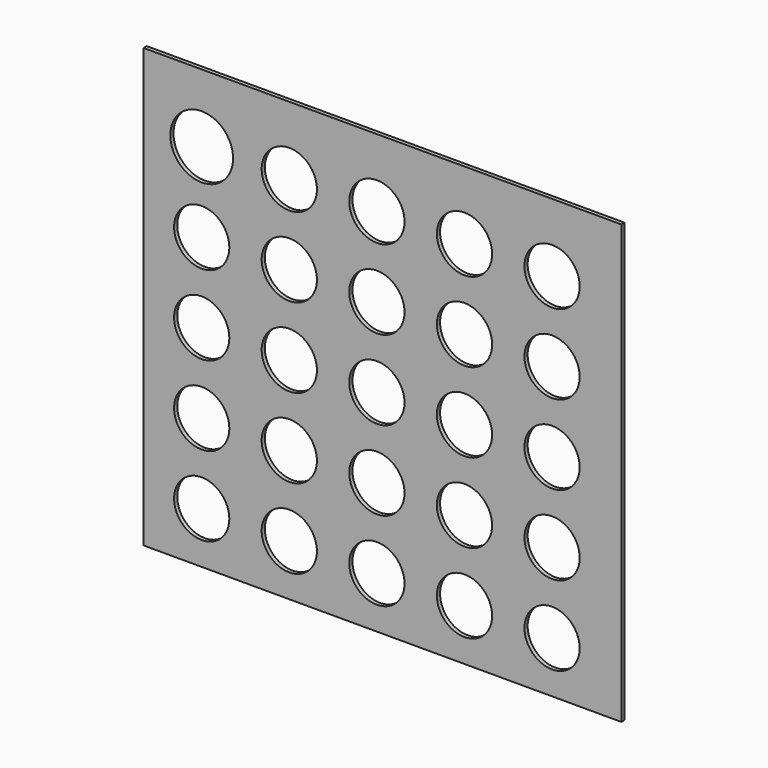
from build123d import *

# Parameters (mm, degrees)
F0_W     = 304.8
F0_H     = 279.4
F0_R     = 17.624016
F0_R_2   = 20.01992
F1_DEPTH = 2.54
F2_DEPTH = 0.0254


with BuildPart() as f1:
    # F0 (on Front) → F1 (new body)
    with BuildSketch(Plane.XZ):
        with Locations((46.453467, 28.282007)):
            Rectangle(F0_W, F0_H)
        with Locations((-68.827078, -78.692752)):
            Circle(F0_R, mode=Mode.SUBTRACT)
        with Locations((-12.947078, -78.692752)):
            Circle(F0_R, mode=Mode.SUBTRACT)
        with Locations((42.932922, -78.692752)):
            Circle(F0_R, mode=Mode.SUBTRACT)
        with Locations((-68.827078, -27.892752)):
            Circle(F0_R, mode=Mode.SUBTRACT)
        with Locations((-68.827078, 22.907248)):
            Circle(F0_R, mode=Mode.SUBTRACT)
        with Locations((-12.947078, -27.892752)):
            Circle(F0_R, mode=Mode.SUBTRACT)
        with Locations((42.932922, -27.892752)):
            Circle(F0_R, mode=Mode.SUBTRACT)
        with Locations((-12.947078, 22.907248)):
            Circle(F0_R, mode=Mode.SUBTRACT)
        with Locations((42.932922, 22.907248)):
            Circle(F0_R, mode=Mode.SUBTRACT)
        with Locations((98.812922, -78.692752)):
            Circle(F0_R, mode=Mode.SUBTRACT)
        with Locations((154.692922, -78.692752)):
            Circle(F0_R, mode=Mode.SUBTRACT)
        with Locations((98.812922, -27.892752)):
            Circle(F0_R, mode=Mode.SUBTRACT)
        with Locations((98.812922, 22.907248)):
            Circle(F0_R, mode=Mode.SUBTRACT)
        with Locations((154.692922, -27.892752)):
            Circle(F0_R, mode=Mode.SUBTRACT)
        with Locations((154.692922, 22.907248)):
            Circle(F0_R, mode=Mode.SUBTRACT)
        with Locations((-68.827078, 73.707248)):
            Circle(F0_R, mode=Mode.SUBTRACT)
        with Locations((-12.947078, 73.707248)):
            Circle(F0_R, mode=Mode.SUBTRACT)
        with Locations((42.932922, 73.707248)):
            Circle(F0_R, mode=Mode.SUBTRACT)
        with Locations((-68.827078, 124.507248)):
            Circle(F0_R_2, mode=Mode.SUBTRACT)
        with Locations((-12.947078, 124.507248)):
            Circle(F0_R, mode=Mode.SUBTRACT)
        with Locations((42.932922, 124.507248)):
            Circle(F0_R, mode=Mode.SUBTRACT)
        with Locations((98.812922, 73.707248)):
            Circle(F0_R, mode=Mode.SUBTRACT)
        with Locations((154.692922, 73.707248)):
            Circle(F0_R, mode=Mode.SUBTRACT)
        with Locations((98.812922, 124.507248)):
            Circle(F0_R, mode=Mode.SUBTRACT)
        with Locations((154.692922, 124.507248)):
            Circle(F0_R, mode=Mode.SUBTRACT)
    extrude(amount=F1_DEPTH)


with BuildPart() as f2:
    # F0 (on Front) → F2 (new body)
    with BuildSketch(Plane.XZ):
        with Locations((46.453467, 28.282007)):
            Rectangle(F0_W, F0_H)
        with Locations((-68.827078, -78.692752)):
            Circle(F0_R, mode=Mode.SUBTRACT)
        with Locations((-12.947078, -78.692752)):
            Circle(F0_R, mode=Mode.SUBTRACT)
        with Locations((42.932922, -78.692752)):
            Circle(F0_R, mode=Mode.SUBTRACT)
        with Locations((-68.827078, -27.892752)):
            Circle(F0_R, mode=Mode.SUBTRACT)
        with Locations((-68.827078, 22.907248)):
            Circle(F0_R, mode=Mode.SUBTRACT)
        with Locations((-12.947078, -27.892752)):
            Circle(F0_R, mode=Mode.SUBTRACT)
        with Locations((42.932922, -27.892752)):
            Circle(F0_R, mode=Mode.SUBTRACT)
        with Locations((-12.947078, 22.907248)):
            Circle(F0_R, mode=Mode.SUBTRACT)
        with Locations((42.932922, 22.907248)):
            Circle(F0_R, mode=Mode.SUBTRACT)
        with Locations((98.812922, -78.692752)):
            Circle(F0_R, mode=Mode.SUBTRACT)
        with Locations((154.692922, -78.692752)):
            Circle(F0_R, mode=Mode.SUBTRACT)
        with Locations((98.812922, -27.892752)):
            Circle(F0_R, mode=Mode.SUBTRACT)
        with Locations((98.812922, 22.907248)):
            Circle(F0_R, mode=Mode.SUBTRACT)
        with Locations((154.692922, -27.892752)):
            Circle(F0_R, mode=Mode.SUBTRACT)
        with Locations((154.692922, 22.907248)):
            Circle(F0_R, mode=Mode.SUBTRACT)
        with Locations((-68.827078, 73.707248)):
            Circle(F0_R, mode=Mode.SUBTRACT)
        with Locations((-12.947078, 73.707248)):
            Circle(F0_R, mode=Mode.SUBTRACT)
        with Locations((42.932922, 73.707248)):
            Circle(F0_R, mode=Mode.SUBTRACT)
        with Locations((-68.827078, 124.507248)):
            Circle(F0_R_2, mode=Mode.SUBTRACT)
        with Locations((-12.947078, 124.507248)):
            Circle(F0_R, mode=Mode.SUBTRACT)
        with Locations((42.932922, 124.507248)):
            Circle(F0_R, mode=Mode.SUBTRACT)
        with Locations((98.812922, 73.707248)):
            Circle(F0_R, mode=Mode.SUBTRACT)
        with Locations((154.692922, 73.707248)):
            Circle(F0_R, mode=Mode.SUBTRACT)
        with Locations((98.812922, 124.507248)):
            Circle(F0_R, mode=Mode.SUBTRACT)
        with Locations((154.692922, 124.507248)):
            Circle(F0_R, mode=Mode.SUBTRACT)
    extrude(amount=F2_DEPTH)


solid = Compound([f1.part, f2.part])
